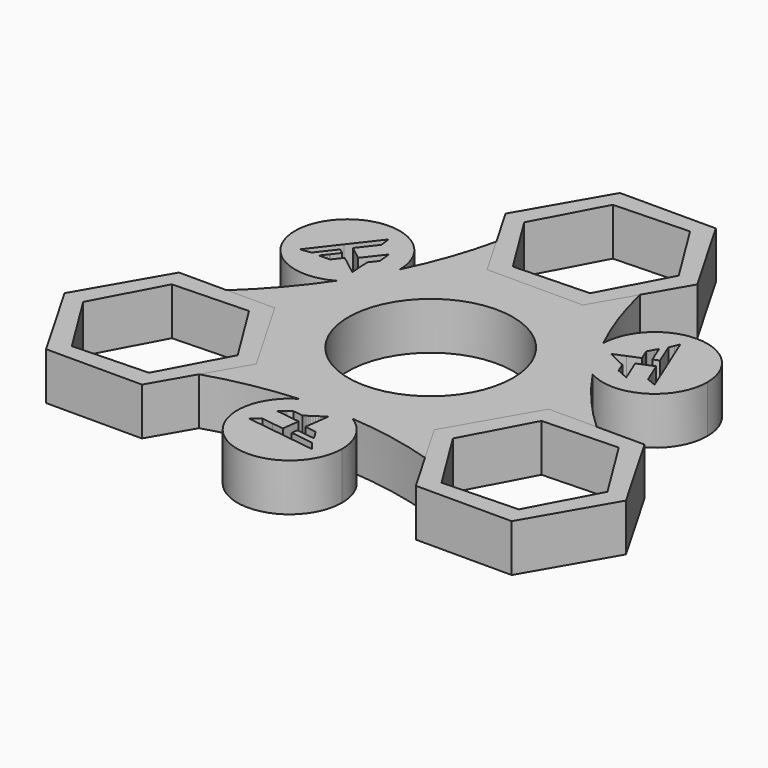
from build123d import *

# Parameters (mm, degrees)
F1_R     = 14.2875
F1_R_2   = 11.0236
F2_DEPTH = 6.35
F4_DEPTH = 25.4


with BuildPart() as f2:
    # F1 (on Top) → F2 (new body)
    with BuildSketch(Plane.XY):
        with BuildLine():
            ThreePointArc((-17.1346781073, 5.6668783452), (-15.2406510963, 8.6836369601), (-13.5626823374, 11.8257050216))
            ThreePointArc((-13.5626823374, 11.8257050216), (-26.6316633102, 15.2901952513), (-17.1346781073, 5.6668783452))
        make_face()
        with BuildLine():
            ThreePointArc((27.4894590994, 11.9268356642), (20.5214043574, 18.9341761278), (13.4749996607, 12.005627354))
            ThreePointArc((13.4749996607, 12.005627354), (15.1405757528, 8.8569725396), (17.022702135, 5.8327749368))
            ThreePointArc((17.022702135, 5.8327749368), (24.0078734686, 5.8710413831), (27.4894590994, 11.9268356642))
        make_face()
        with BuildLine():
            ThreePointArc((7.0953899366, -23.7013569852), (6.1761718152, -20.2318050951), (3.6596784466, -17.6725056991))
            ThreePointArc((3.6596784466, -17.6725056991), (0.1000753435, -17.5406094997), (-3.4600197976, -17.6584799584))
            ThreePointArc((-3.4600197976, -17.6584799584), (-3.3936001712, -29.7827432873), (7.0953899366, -23.7013569852))
        make_face()
        with BuildLine():
            ThreePointArc((13.4749996607, 12.005627354), (11.2321348201, 17.4012572144), (9.6237072996, 23.01875))
            Line((9.6237072996, 23.01875), (6.4158048664, 17.4625))
            Line((6.4158048664, 17.4625), (0, 17.4625))
            Line((0, 17.4625), (-6.4158048664, 17.4625))
            Line((-6.4158048664, 17.4625), (-9.6237072996, 23.01875))
            ThreePointArc((-9.6237072996, 23.01875), (-11.2652625782, 17.3068239802), (-13.5626823374, 11.8257050216))
            ThreePointArc((-13.5626823374, 11.8257050216), (-13.56254214, 11.800113342), (-13.5624954073, 11.7745213211))
            ThreePointArc((-13.5624954073, 11.7745213211), (-14.5211099962, 8.2367327476), (-17.1346781073, 5.6668783452))
            ThreePointArc((-17.1346781073, 5.6668783452), (-20.6859982155, 1.0266854857), (-24.7466759131, -3.175))
            Line((-24.7466759131, -3.175), (-18.3308710468, -3.175))
            Line((-18.3308710468, -3.175), (-15.1229686782, -8.731249888))
            Line((-15.1229686782, -8.731249888), (-11.9150661804, -14.2875))
            Line((-11.9150661804, -14.2875), (-15.1229686136, -19.84375))
            ThreePointArc((-15.1229686136, -19.84375), (-9.3555179366, -18.4094155631), (-3.4600197976, -17.6584799584))
            ThreePointArc((-3.4600197976, -17.6584799584), (0.1017433153, -16.6939193731), (3.6596784466, -17.6725056991))
            ThreePointArc((3.6596784466, -17.6725056991), (9.4538633955, -18.4279427001), (15.1229686136, -19.84375))
            Line((15.1229686136, -19.84375), (11.9150661804, -14.2875))
            Line((11.9150661804, -14.2875), (15.1229687517, -8.7312497608))
            Line((15.1229687517, -8.7312497608), (18.3308710468, -3.175))
            Line((18.3308710468, -3.175), (24.7466759131, -3.175))
            ThreePointArc((24.7466759131, -3.175), (20.6207805148, 1.1025915829), (17.022702135, 5.8327749368))
            ThreePointArc((17.022702135, 5.8327749368), (14.4064866082, 8.4350719823), (13.4749996607, 12.005627354))
        make_face()
        Circle(F1_R, mode=Mode.SUBTRACT)
        with BuildLine():
            ThreePointArc((17.022702135, 5.8327749368), (15.1405757528, 8.8569725396), (13.4749996607, 12.005627354))
            ThreePointArc((13.4749996607, 12.005627354), (14.4064866082, 8.4350719823), (17.022702135, 5.8327749368))
        make_face()
        Circle(F1_R)
        Circle(F1_R_2, mode=Mode.SUBTRACT)
        with BuildLine():
            ThreePointArc((-13.5624954073, 11.7745213211), (-13.56254214, 11.800113342), (-13.5626823374, 11.8257050216))
            ThreePointArc((-13.5626823374, 11.8257050216), (-15.2406510963, 8.6836369601), (-17.1346781073, 5.6668783452))
            ThreePointArc((-17.1346781073, 5.6668783452), (-14.5211099962, 8.2367327476), (-13.5624954073, 11.7745213211))
        make_face()
        with BuildLine():
            ThreePointArc((-3.4600197976, -17.6584799584), (0.1000753435, -17.5406094997), (3.6596784466, -17.6725056991))
            ThreePointArc((3.6596784466, -17.6725056991), (0.1017433153, -16.6939193731), (-3.4600197976, -17.6584799584))
        make_face()
    extrude(amount=F2_DEPTH)

    # F3 (on face) → F4 (cut)
    with BuildSketch(Plane.XY.offset(6.35)):
        Polygon((-3.6824977875, -23.5400519532), (-4.8206176352, -24.4054120113), (-0.0859671183, -25.0500015951), (4.6489383184, -25.6926576513), (4.2122287886, -25.1250243026), (3.7757841964, -24.5554449294), (0.711938647, -24.1383237669), (0.8248965718, -23.3086232712), (2.0556705154, -23.4876751441), (2.1481316376, -23.5012471964), (2.4255100197, -23.541796345), (2.7134392512, -23.5832413471), (2.9294549458, -23.6134127183), (3.0833632535, -23.6333821423), (3.1851782242, -23.6445268229), (3.244793857, -23.647985847), (3.2721258097, -23.6449428325), (3.2775478435, -23.6383070605), (3.277092233, -23.6366649015), (3.2760047852, -23.6308062047), (3.2581175637, -23.5998038821), (3.2084091957, -23.5130873584), (3.1336345518, -23.386199403), (3.0395865977, -23.2287164329), (2.9319785006, -23.0501901404), (2.8165599082, -22.8601078802), (2.6989883403, -22.668124655), (2.6137483842, -22.5297351211), (2.5851470379, -22.4836628426), (2.5362900517, -22.4038262975), (0.9769800433, -22.1915371358), (1.198626089, -20.5352972556), (1.4180943184, -18.8806986203), (1.2676598011, -18.9815152319), (1.2428148224, -18.9983612087), (1.1680134941, -19.0484123958), (1.001390525, -19.1598102619), (0.7875627395, -19.3025286304), (0.546405951, -19.4633363101), (0.2975691576, -19.6290391483), (0.0609051154, -19.7864735049), (-0.143790902, -19.9223889072), (-0.2585298951, -19.9984363755), (-0.2968528693, -20.0236697552), (-0.3186412666, -20.038528402), (-0.384156219, -20.082779016), (-0.4820081272, -20.1487131993), (-0.577904438, -20.2134166574), (-0.6391389775, -20.2549372893), (-0.659455422, -20.2688597469), (-0.8312838123, -20.386014993), (-2.1959097142, -20.200230712), (-2.7576098322, -20.60700199), (-2.7865622255, -20.6279543152), (-2.8734812505, -20.6908583144), (-2.9872108964, -20.773439956), (-3.095895756, -20.8525640319), (-3.1966160745, -20.9262301281), (-3.2865857569, -20.9921978616), (-3.3629085603, -21.0484358961), (-3.4227260017, -21.0927830074), (-3.4530963551, -21.1154966596), (-3.4631486756, -21.1230544596), (-3.6086845225, -21.2303442789), (-0.3294018075, -21.676795706), (-0.6381875586, -23.9448941252), (-2.1604674112, -23.7434401735), align=None)
        Polygon((22.2275318916, 8.5808893432), (23.5460156092, 8.0279286716), (21.7369213053, 12.4505510892), (19.9260250575, 16.87242751), (19.6527949225, 16.2104092888), (19.3777470119, 15.547647498), (20.5484322635, 12.6857188377), (19.7734115942, 12.3686930223), (19.3130880929, 13.5241004602), (19.2786112739, 13.610960167), (19.1750386757, 13.8714514667), (19.0669664846, 14.1415279967), (18.9850878112, 14.3436887614), (18.9254276858, 14.4869619778), (18.884171777, 14.5807086692), (18.8573595634, 14.6340668337), (18.8410582591, 14.6562154919), (18.8326004951, 14.6575932249), (18.831406149, 14.656377575), (18.8268760926, 14.6525064693), (18.8089709043, 14.6215145197), (18.758726376, 14.5351075484), (18.6862255051, 14.4069068295), (18.5968652294, 14.2467174271), (18.4960609733, 14.0642629351), (18.3891542034, 13.8692663719), (18.2816776372, 13.6714547947), (18.2044487633, 13.5284400603), (18.1788496728, 13.4806344286), (18.1341376898, 13.3984047649), (18.729944887, 11.9418581044), (17.1847760531, 11.3056892705), (15.6421174872, 10.6684550148), (15.8046444926, 10.588583207), (15.8316560258, 10.5754898128), (15.9124022894, 10.5357355558), (16.092187156, 10.4471347648), (16.3226987815, 10.3333136547), (16.5825407114, 10.2048695894), (16.8504619755, 10.0722220241), (17.1051361489, 9.9459821296), (17.3251903487, 9.8366678796), (17.4484188847, 9.775324731), (17.4894331196, 9.7547527516), (17.5131952839, 9.7433127694), (17.5842749159, 9.7087004634), (17.6903015478, 9.6569253167), (17.7942845416, 9.6062284045), (17.8608597334, 9.5739580535), (17.8830751575, 9.5633247253), (18.0704487721, 9.4730945973), (18.591867816, 8.1984017591), (19.2249921353, 7.9153408266), (19.2576135779, 7.9007434811), (19.3555495516, 7.856921397), (19.4839321741, 7.7997194553), (19.6067980636, 7.7451576438), (19.7209549336, 7.6947643374), (19.8230695079, 7.6498321736), (19.9099344761, 7.6118537042), (19.9782489217, 7.582223836), (20.0131046983, 7.5672791646), (20.0246761053, 7.5623524997), (20.1903597378, 7.4899596687), (18.9373566578, 10.5531275197), (21.0559803826, 11.4197604245), (21.6426560691, 10.0007004246), align=None)
        Polygon((-24.5749633759, 8.8202301413), (-23.865023711, 8.9146150139), (-23.1535312083, 9.0077974314), (-21.2603709104, 11.4526049293), (-20.598308166, 10.9399302489), (-21.3687586083, 9.9635746839), (-21.4267429115, 9.8902870293), (-21.6005486953, 9.6703448784), (-21.7804057357, 9.4417133504), (-21.914542757, 9.2697239568), (-22.0087909394, 9.1464201645), (-22.0693500012, 9.0638181537), (-22.1021534203, 9.0139190133), (-22.1131840688, 8.9887273406), (-22.1101483386, 8.9807138357), (-22.1084983819, 8.9802873265), (-22.1028808778, 8.9782997355), (-22.067088468, 8.9782893623), (-21.9671355716, 8.97797981), (-21.8198600569, 8.9792925735), (-21.6364518271, 8.9819990058), (-21.4280394739, 8.9859272053), (-21.2057141116, 8.9908415083), (-20.9806659775, 8.9966698603), (-20.8181971475, 9.0012950607), (-20.7639967107, 9.0030284139), (-20.6704277415, 9.0054215326), (-19.7069249303, 10.2496790314), (-18.3834021421, 9.229607985), (-17.0602118056, 8.2122436055), (-17.0723042937, 8.3929320249), (-17.0744708483, 8.4228713959), (-17.0804157836, 8.51267684), (-17.093577681, 8.7126754972), (-17.110261521, 8.9692149757), (-17.1289466625, 9.2584667207), (-17.1480311332, 9.5568171243), (-17.1660412643, 9.8404913753), (-17.1813994467, 10.0857210276), (-17.1898889896, 10.2231116446), (-17.1925802503, 10.2689170036), (-17.1945540172, 10.2952156326), (-17.200118697, 10.3740785526), (-17.2082934206, 10.4917878826), (-17.2163801036, 10.607188253), (-17.2217207558, 10.6809792358), (-17.2236197355, 10.7055350215), (-17.2391649597, 10.9129203958), (-16.3959581018, 12.0018289529), (-16.4673823031, 12.6916611634), (-16.4710513523, 12.7272108342), (-16.4820683011, 12.8339369174), (-16.4967212777, 12.9737205008), (-16.5109023077, 13.1074063881), (-16.5243388591, 13.2314657907), (-16.536483751, 13.342365688), (-16.5470259158, 13.4365821919), (-16.55552292, 13.5105591713), (-16.5600083432, 13.548217495), (-16.5615274298, 13.5607019599), (-16.5816752153, 13.7403846102), (-18.6079548503, 11.1236681864), (-20.417792824, 12.5251337007), (-19.4821886579, 13.7427397489), (-18.5450341041, 14.9591626099), (-18.725397974, 16.3774833396), (-21.650954187, 12.5994505059), align=None)
    extrude(amount=-F4_DEPTH, mode=Mode.SUBTRACT)


with BuildPart() as f2b:
    # F0 (on Top) → F2, piece 2 (new body)
    with BuildSketch(Plane.XY):
        Polygon((11.9150661804, -14.2875), (18.3308710468, -25.4), (31.1624807795, -25.4), (37.5782856459, -14.2875), (31.1624807795, -3.175), (18.3308710468, -3.175), align=None)
        Polygon((30.0730050816, -22.8476705399), (19.9965153491, -23.1803216388), (14.6701861806, -14.6201510989), (19.4203467446, -5.7273294601), (29.4968364772, -5.3946783612), (34.8231656457, -13.9548489011), align=None, mode=Mode.SUBTRACT)
    extrude(amount=F2_DEPTH)


with BuildPart() as f2c:
    # F0 (on Top) → F2, piece 3 (new body)
    with BuildSketch(Plane.XY):
        Polygon((-18.3308710468, -3.175), (-31.1624807795, -3.175), (-37.5782856459, -14.2875), (-31.1624807795, -25.4), (-18.3308710468, -25.4), (-11.9150661804, -14.2875), align=None)
        Polygon((-34.8231656457, -14.6201510989), (-30.0730050816, -5.7273294601), (-19.9965153491, -5.3946783612), (-14.6701861806, -13.9548489011), (-19.4203467446, -22.8476705399), (-29.4968364772, -23.1803216388), align=None, mode=Mode.SUBTRACT)
    extrude(amount=F2_DEPTH)


with BuildPart() as f2d:
    # F0 (on Top) → F2, piece 4 (new body)
    with BuildSketch(Plane.XY):
        Polygon((-6.4158048664, 17.4625), (6.4158048664, 17.4625), (12.8316097327, 28.575), (6.4158048664, 39.6875), (-6.4158048664, 39.6875), (-12.8316097327, 28.575), align=None)
        Polygon((5.3263291685, 20.0148294601), (-4.750160564, 19.6821783612), (-10.0764897325, 28.2423489011), (-5.3263291685, 37.1351705399), (4.750160564, 37.4678216388), (10.0764897325, 28.9076510989), align=None, mode=Mode.SUBTRACT)
    extrude(amount=F2_DEPTH)


solid = Compound([f2.part, f2b.part, f2c.part, f2d.part])
